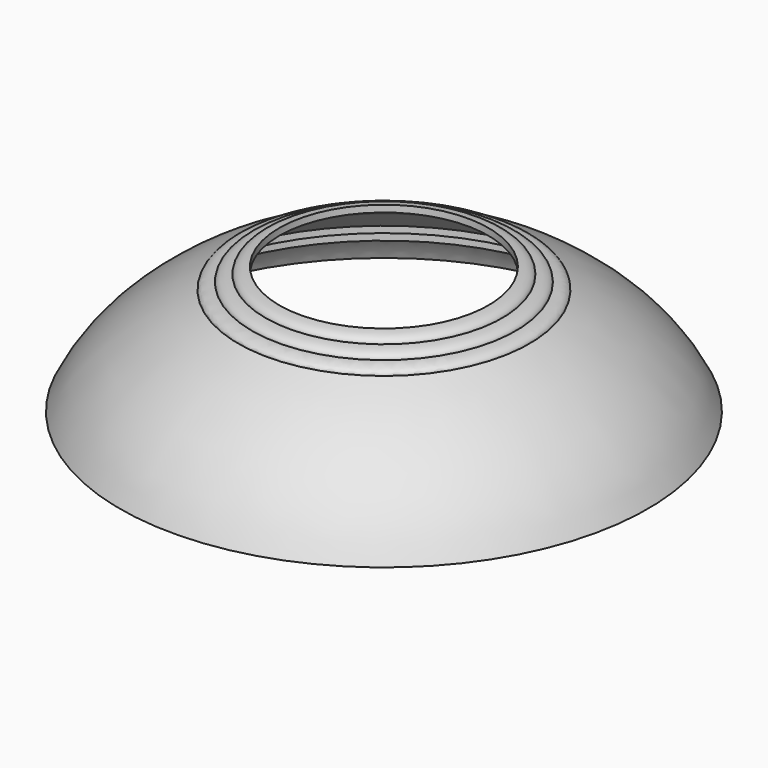
from build123d import *


with BuildPart() as f1:
    # F0 (on Front) → F1 (revolve)
    with BuildSketch(Plane.XZ):
        with BuildLine():
            add(Edge.make_bspline(
                [(-23, 28), (-26, 28), (-26, 26.5)],
                knots=[1.5707963268, 1.5707963268, 1.5707963268, 3.1415926536, 3.1415926536, 3.1415926536], degree=2, weights=[1, 0.7071067812, 1]))
            add(Edge.make_bspline(
                [(-26, 26.5), (-29, 26.5130756455), (-29, 25)],
                knots=[1.5621544533, 1.5621544533, 1.5621544533, 3.1415926536, 3.1415926536, 3.1415926536], degree=2, weights=[1, 0.704044826, 1]))
            add(Edge.make_bspline(
                [(-29, 25), (-32, 25.005085481), (-32, 23.5)],
                knots=[1.5674174552, 1.5674174552, 1.5674174552, 3.1415926536, 3.1415926536, 3.1415926536], degree=2, weights=[1, 0.7059111611, 1]))
            add(Edge.make_bspline(
                [(-32, 23.5), (-35.7664223518, 21.9115754272), (-45.7336029964, 16.2689036915), (-54.7149247659, 6.8365594602), (-58, 0)],
                knots=[0, 0, 0, 0, 0.457158726, 1, 1, 1, 1], degree=3))
            Line((-58, 0), (-57, 0))
            add(Edge.make_bspline(
                [(-57, 0), (-56.21731758, 1.9248900624), (-53.9246552734, 6.3174055544), (-51.4485512354, 7.0673137151), (-51.0134030733, 7)],
                knots=[0.0295032977, 0.0295032977, 0.0295032977, 0.0295032977, 0.6235876362, 0.7771792666, 0.7771792666, 0.7771792666, 0.7771792666], degree=3))
            Line((-51.0134030733, 7), (-50, 7))
            Line((-50, 7), (-50, 9.5))
            Line((-50, 9.5), (-48, 9.5))
            Line((-48, 9.5), (-48, 10.9212319285))
            Line((-48, 10.9212319285), (-40.0943793356, 17.3090230674))
            Line((-40.0943793356, 17.3090230674), (-29.0101024607, 23.5))
            Line((-29.0101024607, 23.5), (-26.0257031769, 25))
            Line((-26.0257031769, 25), (-23, 26.5))
            Line((-23, 26.5), (-23, 28))
        make_face()
    revolve(axis=Axis((0, 0, 6.8199094385), (0, 0, -1)))


solid = f1.part
